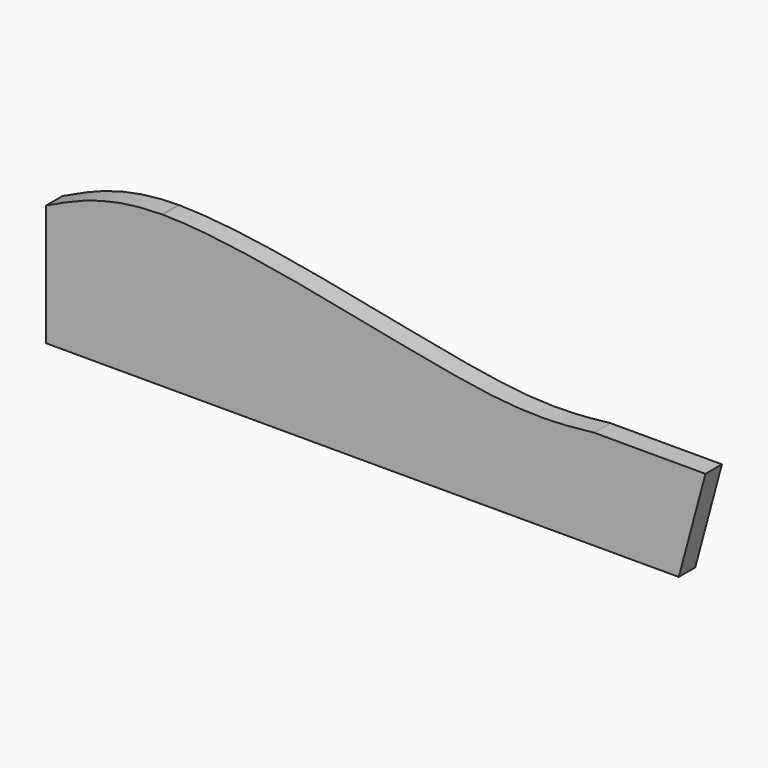
from build123d import *

# Parameters (mm, degrees)
F0_W     = 19.05
F0_H     = 139.7
F1_DEPTH = 304.8
F3_DEPTH = 19.051


with BuildPart() as f1:
    # F0 (on Right) → F1 (new body, symmetric)
    with BuildSketch(Plane.YZ):
        Rectangle(F0_W, F0_H)
    extrude(amount=F1_DEPTH, both=True)

    # F2 (on face) → F3 (cut, through all)
    with BuildSketch(Plane.XZ.offset(9.525)):
        with BuildLine():
            add(Edge.make_bspline(
                [(-197.857901454, 69.85), (-247.3348332126, 69.7489088286), (-276.0674166063, 56.0073166097), (-304.8, 42.2657243907)],
                knots=[0.7224872938, 0.7224872938, 0.7224872938, 0.7224872938, 1, 1, 1, 1], degree=3))
            Line((-197.857901454, 69.85), (-304.8, 69.85))
            Line((-304.8, 69.85), (-304.8, 42.2657243907))
        make_face()
        with BuildLine():
            Line((201.7243355513, 22.1196375787), (304.8, 22.1196375787))
            Line((304.8, 22.1196375787), (304.8, 69.85))
            Line((304.8, 69.85), (-196.7516116679, 69.85))
            add(Edge.make_bspline(
                [(201.7243355513, 22.1196375787), (175.6022582866, 19.2188196577), (103.3911235568, 11.199880291), (-114.2641836893, 69.6829313826), (-196.7516116679, 69.85)],
                knots=[0, 0, 0, 0, 0.260610863, 0.7204253301, 0.7204253301, 0.7204253301, 0.7204253301], degree=3))
        make_face()
        Polygon((304.8, -69.85), (304.8, 22.1196375787), (280.1568098826, -69.85), align=None)
    extrude(amount=-F3_DEPTH, mode=Mode.SUBTRACT)


solid = f1.part
